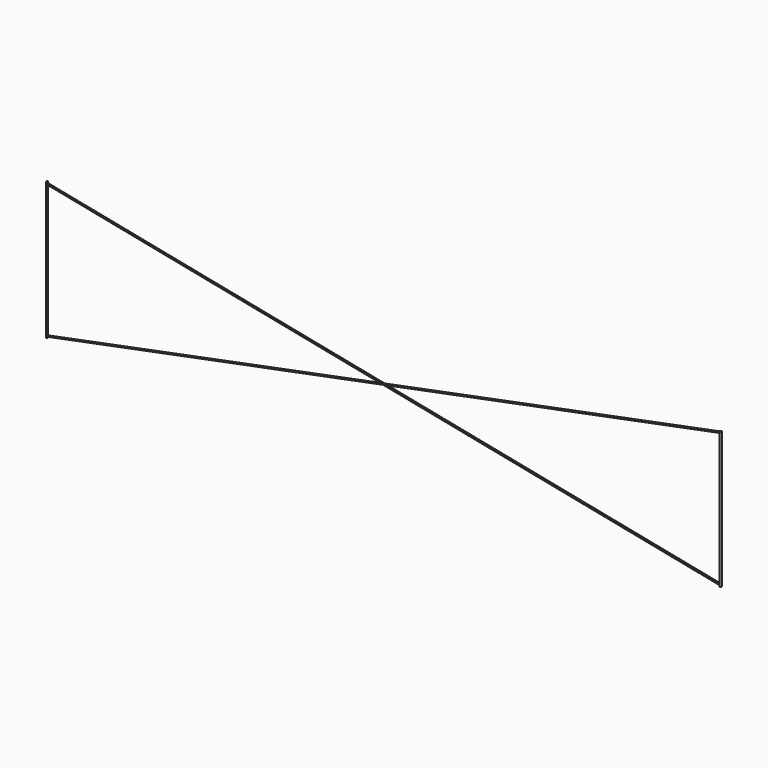
from build123d import *

# Parameters (mm, degrees)
F1_DEPTH = 7
F2_R     = 4.3868021934
F2_R_2   = 5.7227256207
F3_DEPTH = 760
F4_R     = 4.0422183717
F5_DEPTH = 42.5
F6_R     = 5.6433519697
F7_DEPTH = 36.4


with BuildPart() as f1:
    # F0 (on Front) → F1 (new body)
    with BuildSketch(Plane.XZ):
        Polygon((-1894.7580985835, -356.8958429289), (-3859.7185040638, 33.8084518174), (-3860.5420325733, 28.1842127442), (-1910.9308050802, -360.1225932403), align=None)
        Polygon((63.4801523903, 33.8084518174), (-1894.7580985835, -356.8958429289), (-1882.6158415256, -359.310157216), (62.3618528285, 28.1842127442), align=None)
        Polygon((-1882.6158415256, -359.310157216), (-1894.7580985835, -356.8958429289), (-1910.9308050802, -360.1225932403), (-1898.8105548254, -362.5366005038), align=None)
        Polygon((63.4801523903, -746.2635333201), (-1882.6158415256, -359.310157216), (-1898.8105548254, -362.5366005038), (63.4801523903, -753.3687962702), align=None)
        Polygon((-1898.8105548254, -362.5366005038), (-1910.9308050802, -360.1225932403), (-3860.5420325733, -749.1056392452), (-3860.5420325733, -753.3687962702), align=None)
    extrude(amount=F1_DEPTH)

    # F2 (on Top) → F3 (join)
    with BuildSketch(Plane.XY):
        with Locations((-3863.3666038513, -3.6804678384)):
            Circle(F2_R)
        with Locations((68.9439699054, -3.2730470411)):
            Circle(F2_R_2)
    extrude(amount=-F3_DEPTH)

    # F4 (on face) → F5 (join)
    with BuildSketch(Plane.XY):
        with Locations((-3863.3666038513, -3.6804678384)):
            Circle(F4_R)
    extrude(amount=F5_DEPTH)

    # F6 (on face) → F7 (join)
    with BuildSketch(Plane.XY):
        with Locations((68.9439699054, -3.2730470411)):
            Circle(F6_R)
    extrude(amount=F7_DEPTH)


solid = f1.part
